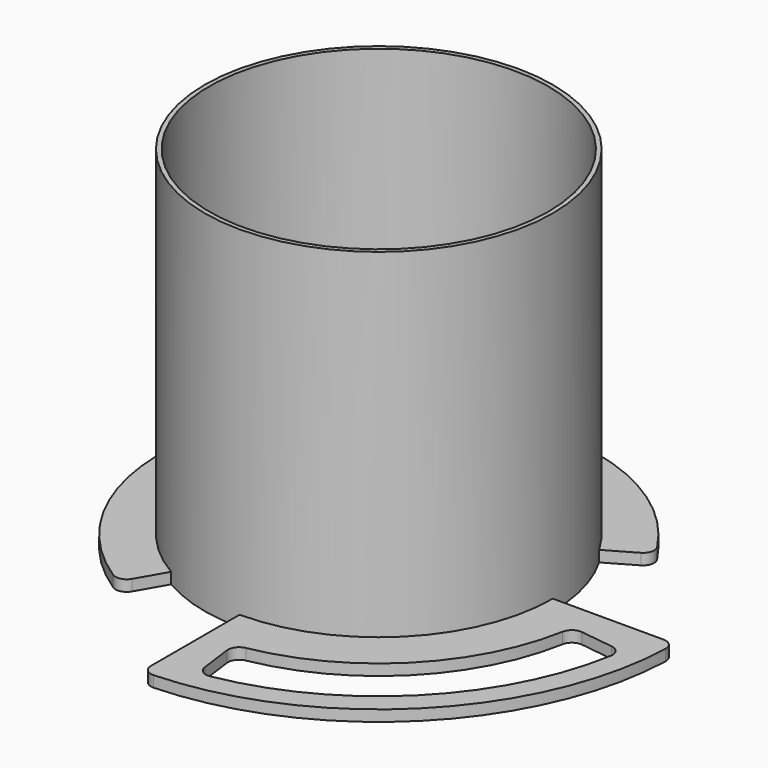
from build123d import *

# Parameters (mm, degrees)
SKETCH_R           = 78.5
SKETCH_R_2         = 76.5
PAD_DEPTH          = 153
SKETCH001_R        = 78.5
PAD001_DEPTH       = 5
PAD002_DEPTH       = 5
POLARPATTERN_COUNT = 3
PAD003_DEPTH       = 5


with BuildPart() as part:
    # Sketch → Pad (new body)
    with BuildSketch(Plane.XY):
        Circle(SKETCH_R)
        Circle(SKETCH_R_2, mode=Mode.SUBTRACT)
    extrude(amount=PAD_DEPTH)

    # Sketch001 (on Face3 of Pad) → Pad001 (join)
    with BuildSketch(Plane(origin=(0, 0, 0), x_dir=(1, 0, 0), z_dir=(0, 0, -1))):
        Circle(SKETCH001_R)
    extrude(amount=PAD001_DEPTH)

    # Sketch002 (on Face5 of Pad001) → Pad002 (join)
    with BuildSketch(Plane(origin=(0, 0, -5), x_dir=(1, 0, 0), z_dir=(0, 0, -1))):
        with BuildLine():
            ThreePointArc((78.5, 0), (55.507882, 55.507882), (0, 78.5))
            Line((0, 78.5), (0, 93.366214))
            ThreePointArc((5.26738, 98.35906), (1.560298, 96.99505), (0, 93.366214))
            ThreePointArc((98.35906, 5.26738), (69.650018, 69.650018), (5.26738, 98.35906))
            ThreePointArc((93.366214, 0), (96.99505, 1.560298), (98.35906, 5.26738))
            Line((78.5, 0), (93.366214, 0))
        make_face()
    pad002 = extrude(amount=-PAD002_DEPTH)

    # PolarPattern: Pad002 ×3 about axis
    polarpattern_axis = Axis((0, 0, -5), (0, 0, -1))
    for i in range(1, POLARPATTERN_COUNT):
        add(pad002.rotate(polarpattern_axis, i * 360 / POLARPATTERN_COUNT))

    # Sketch003 (on Face23 of PolarPattern) → Pad003 (join)
    with BuildSketch(Plane(origin=(0, 0, -5), x_dir=(1, 0, 0), z_dir=(0, 0, -1))):
        with BuildLine():
            ThreePointArc((133.3989, 5.194553), (94.398755, 94.398755), (5.194553, 133.3989))
            ThreePointArc((5.194553, 133.3989), (1.533933, 132.006349), (0, 128.402687))
            Line((0, 0), (0, 128.402687))
            Line((0, 0), (128.402687, 0))
            ThreePointArc((128.402687, 0), (132.006349, 1.533933), (133.3989, 5.194553))
        make_face()
        with BuildLine():
            ThreePointArc((121.654228, 21.272019), (87.327687, 87.327687), (21.272019, 121.654228))
            ThreePointArc((21.272019, 121.654228), (17.45138, 120.759069), (15.453579, 117.381587))
            Line((13.493688, 102.494733), (15.453579, 117.381587))
            ThreePointArc((13.493688, 102.494733), (14.41176, 98.895028), (17.559564, 96.922194))
            ThreePointArc((96.922194, 17.559564), (69.650018, 69.650018), (17.559564, 96.922194))
            ThreePointArc((96.922194, 17.559564), (98.895028, 14.41176), (102.494733, 13.493688))
            Line((102.494733, 13.493688), (117.381587, 15.453579))
            ThreePointArc((117.381587, 15.453579), (120.759069, 17.45138), (121.654228, 21.272019))
        make_face(mode=Mode.SUBTRACT)
    extrude(amount=-PAD003_DEPTH)


solid = part.part
